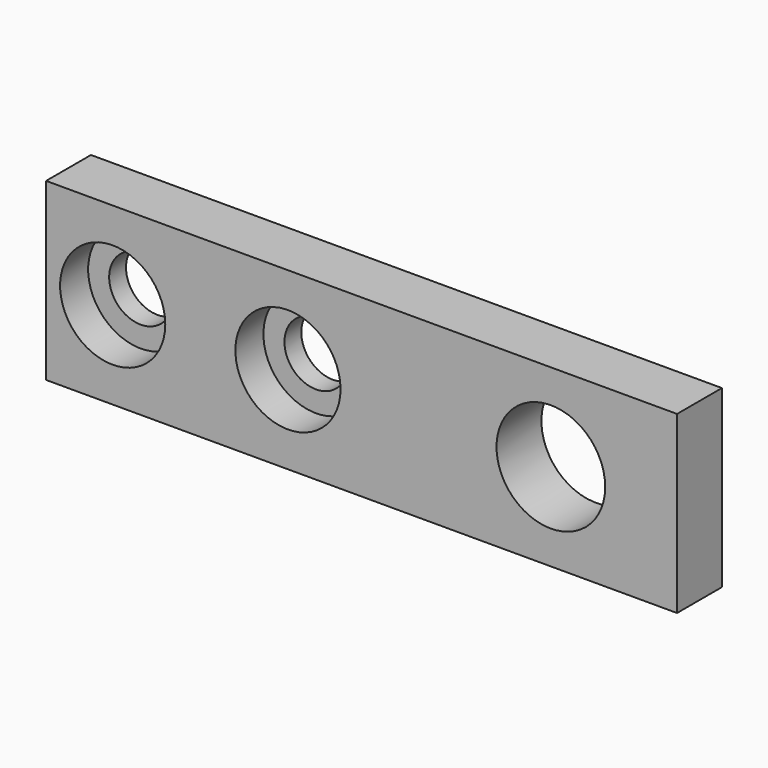
from build123d import *

# Parameters (mm, degrees)
F0_W     = 90
F0_H     = 25
F1_DEPTH = 8
F2_R     = 4.5
F2_R_2   = 7.75
F3_DEPTH = 8
F2_R_3   = 7.5
F4_DEPTH = 5


with BuildPart() as f1:
    # F0 (on Front) → F1 (new body)
    with BuildSketch(Plane.XZ):
        Rectangle(F0_W, F0_H)
    extrude(amount=F1_DEPTH)

    # F2 (on face) → F3 (cut, through all)
    with BuildSketch(Plane.XZ.offset(8)):
        with Locations((-35.5, 0)):
            Circle(F2_R)
        with Locations((-10.5, 0)):
            Circle(F2_R)
        with Locations((27, 0)):
            Circle(F2_R_2)
    extrude(amount=-F3_DEPTH, mode=Mode.SUBTRACT)

    # F2 (on face) → F4 (cut)
    with BuildSketch(Plane.XZ.offset(8)):
        with Locations((-35.5, 0)):
            Circle(F2_R_3)
        with Locations((-35.5, 0)):
            Circle(F2_R, mode=Mode.SUBTRACT)
        with Locations((-10.5, 0)):
            Circle(F2_R_3)
        with Locations((-10.5, 0)):
            Circle(F2_R, mode=Mode.SUBTRACT)
        with Locations((27, 0)):
            Circle(F2_R_2)
    extrude(amount=-F4_DEPTH, mode=Mode.SUBTRACT)


solid = f1.part
